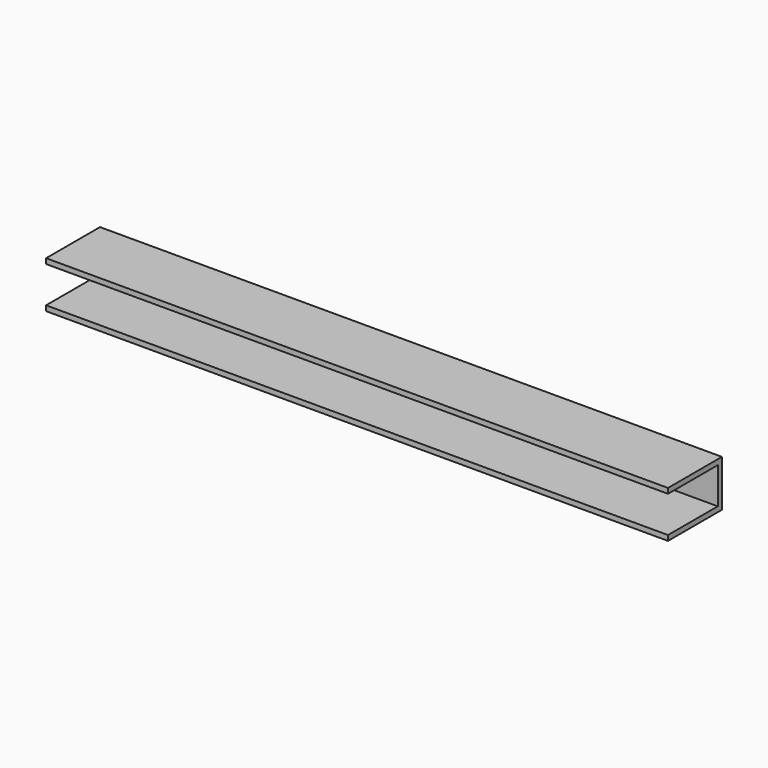
from build123d import *

# Parameters (mm, degrees)
PAD_DEPTH = 600


with BuildPart() as part:
    # Sketch → Pad (new body)
    with BuildSketch(Plane.YZ):
        Polygon((0, 0), (65, 0), (65, 45), (0, 45), (0, 40), (60, 40), (60, 5), (0, 5), align=None)
    extrude(amount=PAD_DEPTH)


solid = part.part
